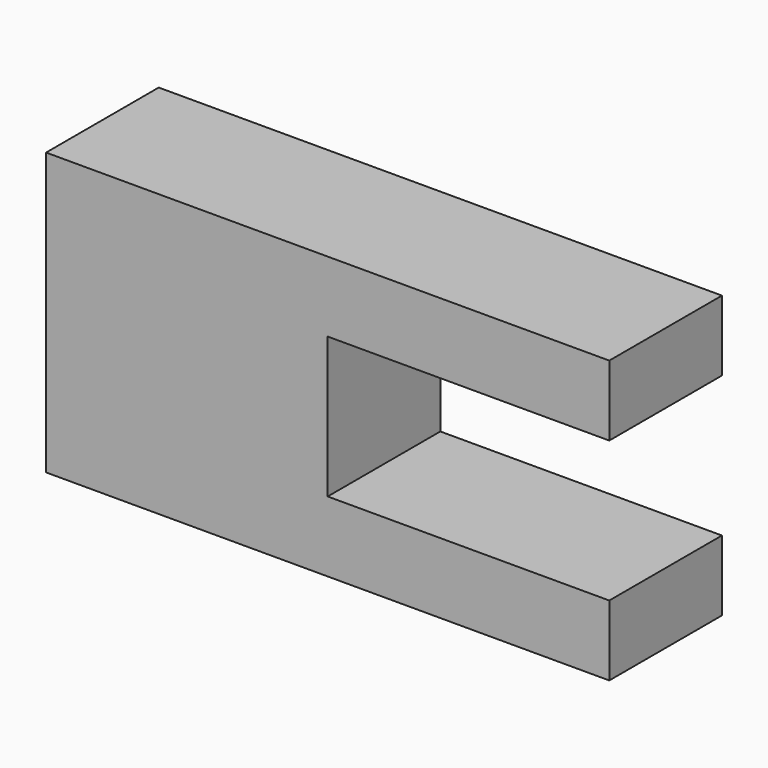
from build123d import *

# Parameters (mm, degrees)
F0_W     = 101.6
F0_H     = 50.8
F1_DEPTH = 25.4
F2_W     = 50.8
F2_H     = 25.4
F3_DEPTH = 25.401


with BuildPart() as f1:
    # F0 (on Front) → F1 (new body)
    with BuildSketch(Plane.XZ):
        Rectangle(F0_W, F0_H)
    extrude(amount=F1_DEPTH)

    # F2 (on Front) → F3 (cut, through all)
    with BuildSketch(Plane.XZ):
        with Locations((25.4, 0)):
            Rectangle(F2_W, F2_H)
    extrude(amount=F3_DEPTH, mode=Mode.SUBTRACT)


solid = f1.part
